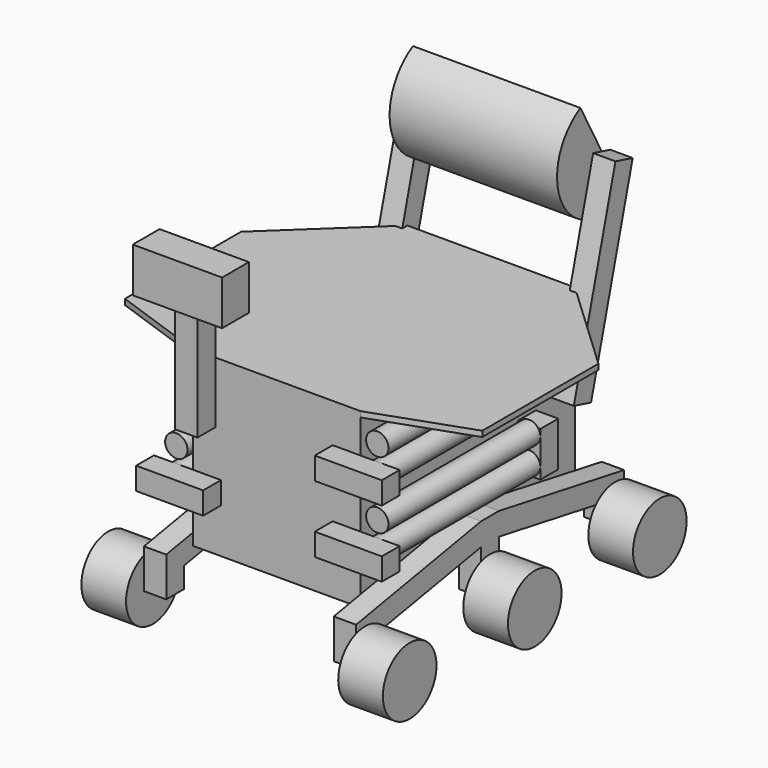
from build123d import *

# Parameters (mm, degrees)
F0_W      = 750
F0_H      = 750
F1_DEPTH  = 600
F3_DEPTH  = 25
F4_W      = 100
F4_H      = 500
F5_DEPTH  = 100
F6_W      = 400
F6_H      = 200
F7_DEPTH  = 150
F10_DEPTH = 100
F11_DEPTH = 100
F12_R     = 150
F14_DEPTH = 200
F13_R     = 150
F15_DEPTH = 200
F17_DEPTH = 375
F18_T     = -3
F21_DEPTH = 100
F22_DEPTH = 100
F23_R     = 50
F24_DEPTH = 850
F25_W     = 300
F25_H     = 100
F26_DEPTH = 100
F30_W     = 100
F30_H     = 200
F31_DEPTH = 100


with BuildPart() as f1:
    # F0 (on Front) → F1 (new body, symmetric)
    with BuildSketch(Plane.XZ):
        with Locations((0, 525)):
            Rectangle(F0_W, F0_H)
    extrude(amount=F1_DEPTH, both=True)

    # F2 (on face) → F3 (join)
    with BuildSketch(Plane.XY.offset(900)):
        Polygon((-800, -450), (-375, -600), (375, -600), (800, -450), (800, 200), (375, 600), (-375, 600), (-800, 200), align=None)
    extrude(amount=F3_DEPTH)

    # F4 (on face) → F5 (join)
    with BuildSketch(Plane(origin=(-375, 0, 0), x_dir=(0, -1, 0), z_dir=(-1, 0, 0))):
        with Locations((650, 900)):
            Rectangle(F4_W, F4_H)
    extrude(amount=-F5_DEPTH)

    # F6 (on face) → F7 (join)
    with BuildSketch(Plane(origin=(0, -600, 0), x_dir=(-1, 0, 0), z_dir=(0, 1, 0))):
        with Locations((325, 1250)):
            Rectangle(F6_W, F6_H)
    extrude(amount=-F7_DEPTH)

    # F8 (on face) → F10 (join)
    with BuildSketch(Plane(origin=(-375, 0, 0), x_dir=(0, -1, 0), z_dir=(-1, 0, 0))):
        Polygon((50, 300), (-50, 300), (-750, 176.5711135041), (-750, 0), (-650, 0), (-650, 92.6611503863), (-50, 198.4573388114), (-50, 0), (50, 0), (50, 198.4573388114), (650, 92.6611503863), (650, 0), (750, 0), (750, 176.5711135041), align=None)
    extrude(amount=F10_DEPTH)

    # F9 (on face) → F11 (join)
    with BuildSketch(Plane.YZ.offset(375)):
        Polygon((-750, 176.5711135041), (-750, 0), (-650, 0), (-650, 92.6611503863), (-50, 198.4573388114), (-50, 0), (50, 0), (50, 198.4573388114), (650, 92.6611503863), (650, 0), (750, 0), (750, 176.5711135041), (50, 300), (-50, 300), align=None)
    extrude(amount=F11_DEPTH)

    # F12 (on face) → F14 (join)
    with BuildSketch(Plane.YZ.offset(475)):
        with Locations((-700, 0)):
            Circle(F12_R)
        Circle(F12_R)
        with Locations((700, 0)):
            Circle(F12_R)
    extrude(amount=F14_DEPTH)

    # F13 (on face) → F15 (join)
    with BuildSketch(Plane(origin=(-475, 0, 0), x_dir=(0, -1, 0), z_dir=(-1, 0, 0))):
        with Locations((-700, 0)):
            Circle(F13_R)
        Circle(F13_R)
        with Locations((700, 0)):
            Circle(F13_R)
    extrude(amount=F15_DEPTH)



with BuildPart() as f17:
    # F16 (on Right) → F17 (new body, symmetric)
    with BuildSketch(Plane.YZ):
        with BuildLine():
            Line((869.1369255612, 1180.2128462175), (630.8630744388, 1619.7871537825))
            ThreePointArc((630.8630744388, 1619.7871537825), (530.2128462175, 1280.8630744388), (869.1369255612, 1180.2128462175))
        make_face()
    extrude(amount=F17_DEPTH, both=True)

    # F18
    f18_openings = [f17.faces().sort_by_distance(p)[0] for p in [
        (0, 750, 1400),
    ]]
    offset(amount=F18_T, openings=f18_openings)


with BuildPart() as f1_1:
    add(f1.part)

    add(f17.part)  # F21 merges F17
    # F19 (on face) → F21 (join)
    with BuildSketch(Plane(origin=(-375, 0, 0), x_dir=(0, -1, 0), z_dir=(-1, 0, 0))):
        Polygon((-468.7665680933, 543.607708595), (-701.7037086855, 1412.9409522551), (-798.2962913145, 1387.0590477449), (-565.3591507222, 517.7258040847), align=None)
    extrude(amount=F21_DEPTH)

    # F20 (on face) → F22 (join)
    with BuildSketch(Plane.YZ.offset(375)):
        Polygon((701.7037086855, 1412.9409522551), (468.7665680933, 543.607708595), (565.3591507222, 517.7258040847), (798.2962913145, 1387.0590477449), align=None)
    extrude(amount=F22_DEPTH)



with BuildPart() as f24:
    # F23 (on face) → F24 (new body)
    with BuildSketch(Plane.XZ.offset(600)):
        with Locations((450, 820)):
            Circle(F23_R)
    extrude(amount=-F24_DEPTH)


with BuildPart() as f24b:
    # F23 (on face) → F24, piece 2 (new body)
    with BuildSketch(Plane.XZ.offset(600)):
        with Locations((450, 700)):
            Circle(F23_R)
    extrude(amount=-F24_DEPTH)


with BuildPart() as f24c:
    # F23 (on face) → F24, piece 3 (new body)
    with BuildSketch(Plane.XZ.offset(600)):
        with Locations((450, 520)):
            Circle(F23_R)
    extrude(amount=-F24_DEPTH)


with BuildPart() as f24d:
    # F23 (on face) → F24, piece 4 (new body)
    with BuildSketch(Plane.XZ.offset(600)):
        with Locations((450, 400)):
            Circle(F23_R)
    extrude(amount=-F24_DEPTH)


with BuildPart() as f24e:
    # F23 (on face) → F24, piece 5 (new body)
    with BuildSketch(Plane.XZ.offset(600)):
        with Locations((-450, 520)):
            Circle(F23_R)
    extrude(amount=-F24_DEPTH)


with BuildPart() as f24f:
    # F23 (on face) → F24, piece 6 (new body)
    with BuildSketch(Plane.XZ.offset(600)):
        with Locations((-450, 400)):
            Circle(F23_R)
    extrude(amount=-F24_DEPTH)


with BuildPart() as f1_2:
    add(f1_1.part)

    add(f24b.part)  # F26 merges F24b

    add(f24d.part)  # F26 merges F24d

    add(f24f.part)  # F26 merges F24f
    # F25 (on face) → F26 (join)
    with BuildSketch(Plane.XZ.offset(600)):
        with Locations((-400, 400)):
            Rectangle(F25_W, F25_H)
        with Locations((400, 400)):
            Rectangle(F25_W, F25_H)
        with Locations((400, 700)):
            Rectangle(F25_W, F25_H)
    extrude(amount=F26_DEPTH)

    # F27: union 

    # F28: union 

    # F29: union 


    add(f24.part)  # F31 merges F24

    add(f24c.part)  # F31 merges F24c

    add(f24e.part)  # F31 merges F24e
    # F30 (on face) → F31 (join)
    with BuildSketch(Plane(origin=(0, 250, 0), x_dir=(-1, 0, 0), z_dir=(0, 1, 0))):
        with Locations((-450, 450)):
            Rectangle(F30_W, F30_H)
        with Locations((450, 450)):
            Rectangle(F30_W, F30_H)
        with Locations((-450, 750)):
            Rectangle(F30_W, F30_H)
    extrude(amount=F31_DEPTH)


solid = f1_2.part
